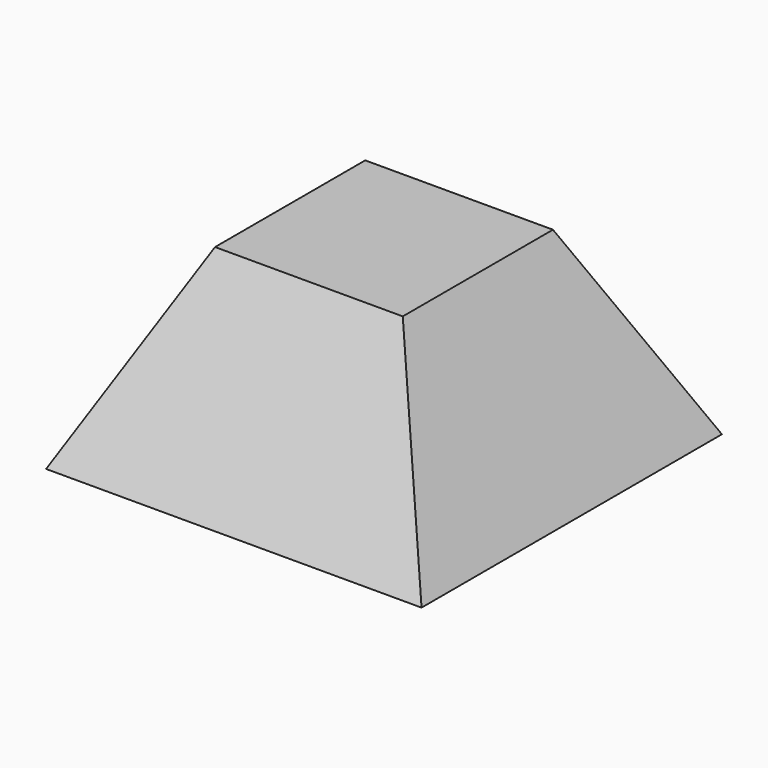
from build123d import *

# Parameters (mm, degrees)
F0_W = 50.8
F0_H = 50.8
F2_W = 25.4
F2_H = 25.4


with BuildPart() as f3:
    # F0 (on Top) → F3 section 0
    with BuildSketch(Plane.XY):
        with Locations((25.4, 25.4)):
            Rectangle(F0_W, F0_H)
    # F2 (on offset) → F3 section 1
    with BuildSketch(Plane.XY.offset(25.4)):
        with Locations((25.4, 25.4)):
            Rectangle(F2_W, F2_H)
    loft()


solid = f3.part
